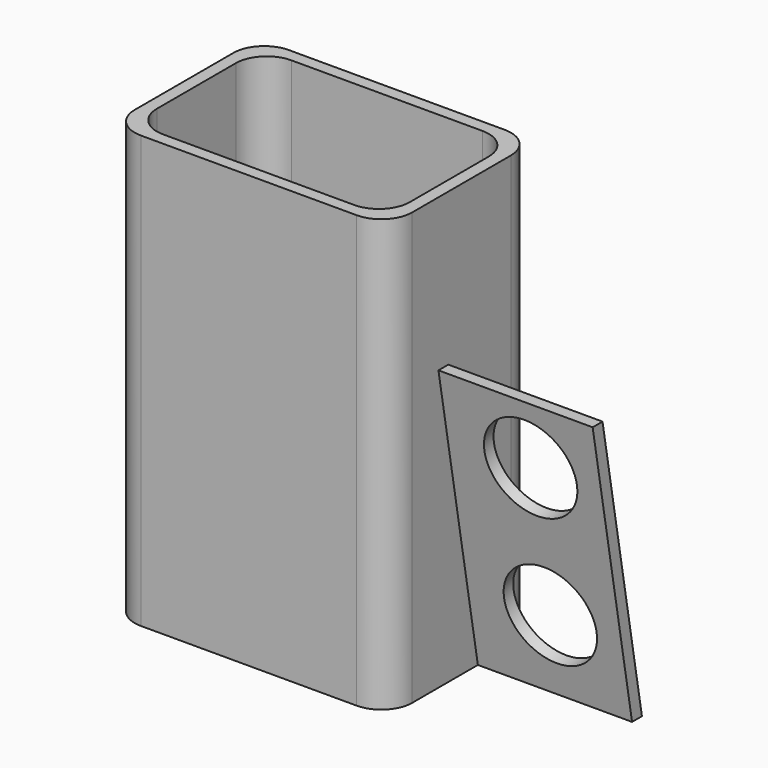
from build123d import *

# Parameters (mm, degrees)
PAD_DEPTH       = 70
POCKET_DEPTH    = 65
PAD001_DEPTH    = 25
SKETCH003_R     = 7.5
POCKET001_DEPTH = 5


with BuildPart() as part:
    # Sketch → Pad (new body)
    with BuildSketch(Plane.XY):
        with BuildLine():
            Line((-22.5, 10), (-22.5, -10))
            ThreePointArc((-22.5, -10), (-21.035534, -13.535534), (-17.5, -15))
            Line((-17.5, -15), (17.5, -15))
            ThreePointArc((17.5, -15), (21.035534, -13.535534), (22.5, -10))
            Line((22.5, -10), (22.5, 10))
            ThreePointArc((22.5, 10), (21.035534, 13.535534), (17.5, 15))
            Line((17.5, 15), (-17.5, 15))
            ThreePointArc((-17.5, 15), (-21.035534, 13.535534), (-22.5, 10))
        make_face()
    extrude(amount=PAD_DEPTH)

    # Sketch001 (on Face10 of Pad) → Pocket (cut)
    with BuildSketch(Plane.XY.offset(70)):
        with BuildLine():
            Line((-20.5, 8), (-20.5, -8))
            ThreePointArc((-20.5, -8), (-19.035534, -11.535534), (-15.5, -13))
            Line((-15.5, -13), (15.5, -13))
            ThreePointArc((15.5, -13), (19.035534, -11.535534), (20.5, -8))
            Line((20.5, -8), (20.5, 8))
            ThreePointArc((20.5, 8), (19.035534, 11.535534), (15.5, 13))
            Line((15.5, 13), (-15.5, 13))
            ThreePointArc((-15.5, 13), (-19.035534, 11.535534), (-20.5, 8))
        make_face()
    extrude(amount=-POCKET_DEPTH, mode=Mode.SUBTRACT)

    # Sketch002 (on Face9 of Pocket) → Pad001 (join)
    with BuildSketch(Plane.YZ.offset(22.5)):
        Polygon((5.3, 0), (-2.687816, 45.301157), (-4.687816, 45.301157), (3.3, 0), align=None)
    extrude(amount=PAD001_DEPTH)

    # Sketch003 (on Face20 of Pad001) → Pocket001 (cut)
    with BuildSketch(Plane(origin=(0, 5.140185, 0.906353), x_dir=(-1, 0, 0), z_dir=(0, 0.984808, 0.173648))):
        with Locations((-36, 35)):
            Circle(SKETCH003_R)
        with Locations((-36, 12)):
            Circle(SKETCH003_R)
    extrude(amount=-POCKET001_DEPTH, mode=Mode.SUBTRACT)


solid = part.part
